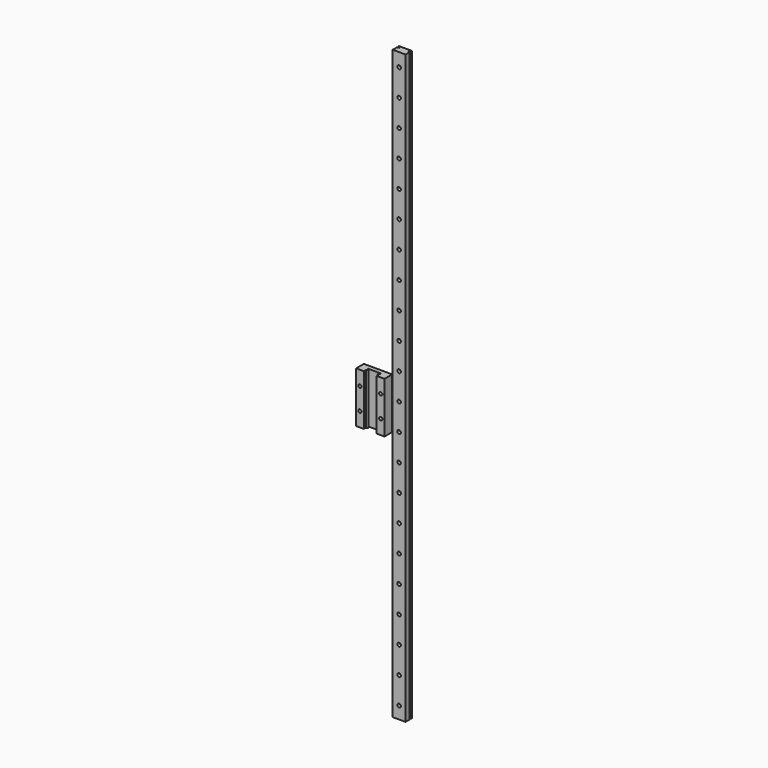
from build123d import *

# Parameters (mm, degrees)
F0_W      = 12
F0_H      = 549
F1_DEPTH  = 3.7
F3_DEPTH  = 549.001
F4_R      = 3
F5_DEPTH  = 4.5
F6_R      = 1.65
F7_DEPTH  = 25
F9_DEPTH  = 23.75
F10_R     = 1.5
F11_DEPTH = 25


with BuildPart() as f1:
    # F0 (on Front) → F1 (new body, symmetric)
    with BuildSketch(Plane.XZ):
        Rectangle(F0_W, F0_H)
    extrude(amount=F1_DEPTH, both=True)

    # F2 (on face) → F3 (cut, through all)
    with BuildSketch(Plane.XY.offset(274.5)):
        Polygon((-4, 1.7), (-6, 2.7), (-6, 1.033333), align=None)
        Polygon((6, 1.033333), (6, 2.7), (4, 1.7), align=None)
    extrude(amount=-F3_DEPTH, mode=Mode.SUBTRACT)

    # F4 (on face) → F5 (cut)
    with BuildSketch(Plane(origin=(0, 3.7, 0), x_dir=(-1, 0, 0), z_dir=(0, 1, 0))):
        with Locations((0, 262)):
            Circle(F4_R)
        with Locations((0, 237)):
            Circle(F4_R)
        with Locations((0, 212)):
            Circle(F4_R)
        with Locations((0, 187)):
            Circle(F4_R)
        with Locations((0, 162)):
            Circle(F4_R)
        with Locations((0, 137)):
            Circle(F4_R)
        with Locations((0, 112)):
            Circle(F4_R)
        with Locations((0, 87)):
            Circle(F4_R)
        with Locations((0, 62)):
            Circle(F4_R)
        with Locations((0, 37)):
            Circle(F4_R)
        with Locations((0, 12)):
            Circle(F4_R)
        with Locations((0, -13)):
            Circle(F4_R)
        with Locations((0, -38)):
            Circle(F4_R)
        with Locations((0, -63)):
            Circle(F4_R)
        with Locations((0, -88)):
            Circle(F4_R)
        with Locations((0, -113)):
            Circle(F4_R)
        with Locations((0, -138)):
            Circle(F4_R)
        with Locations((0, -163)):
            Circle(F4_R)
        with Locations((0, -188)):
            Circle(F4_R)
        with Locations((0, -213)):
            Circle(F4_R)
        with Locations((0, -238)):
            Circle(F4_R)
        with Locations((0, -263)):
            Circle(F4_R)
    extrude(amount=-F5_DEPTH, mode=Mode.SUBTRACT)

    # F6 (on face) → F7 (cut)
    with BuildSketch(Plane.XZ.offset(3.7)):
        with Locations((0, 262)):
            Circle(F6_R)
        with Locations((0, 237)):
            Circle(F6_R)
        with Locations((0, 212)):
            Circle(F6_R)
        with Locations((0, 187)):
            Circle(F6_R)
        with Locations((0, 162)):
            Circle(F6_R)
        with Locations((0, 137)):
            Circle(F6_R)
        with Locations((0, 112)):
            Circle(F6_R)
        with Locations((0, 87)):
            Circle(F6_R)
        with Locations((0, 62)):
            Circle(F6_R)
        with Locations((0, 37)):
            Circle(F6_R)
        with Locations((0, 12)):
            Circle(F6_R)
        with Locations((0, -13)):
            Circle(F6_R)
        with Locations((0, -38)):
            Circle(F6_R)
        with Locations((0, -63)):
            Circle(F6_R)
        with Locations((0, -88)):
            Circle(F6_R)
        with Locations((0, -113)):
            Circle(F6_R)
        with Locations((0, -138)):
            Circle(F6_R)
        with Locations((0, -163)):
            Circle(F6_R)
        with Locations((0, -188)):
            Circle(F6_R)
        with Locations((0, -213)):
            Circle(F6_R)
        with Locations((0, -238)):
            Circle(F6_R)
        with Locations((0, -263)):
            Circle(F6_R)
    extrude(amount=-F7_DEPTH, mode=Mode.SUBTRACT)


with BuildPart() as f9:
    # F8 (on Top) → F9 (new body, symmetric)
    with BuildSketch(Plane.XY):
        Polygon((13.25, -28.305554), (-13.25, -28.305554), (-13.25, -37.305554), (-6, -37.305554), (-6, -34.85106), (-4.158298, -34.305554), (-6, -33.305554), (-6, -32.305554), (6, -32.305554), (6, -33.305554), (4.158298, -34.305554), (6, -34.85106), (6, -37.305554), (13.25, -37.305554), align=None)
    extrude(amount=F9_DEPTH, both=True)

    # F10 (on face) → F11 (cut)
    with BuildSketch(Plane(origin=(0, -28.305554, 0), x_dir=(-1, 0, 0), z_dir=(0, 1, 0))):
        with Locations((9.75, -10.25)):
            Circle(F10_R)
        with Locations((9.75, 10.25)):
            Circle(F10_R)
        with Locations((-9.75, 10.25)):
            Circle(F10_R)
        with Locations((-9.75, -10.25)):
            Circle(F10_R)
    extrude(amount=-F11_DEPTH, mode=Mode.SUBTRACT)


solid = Compound([f1.part, f9.part])
